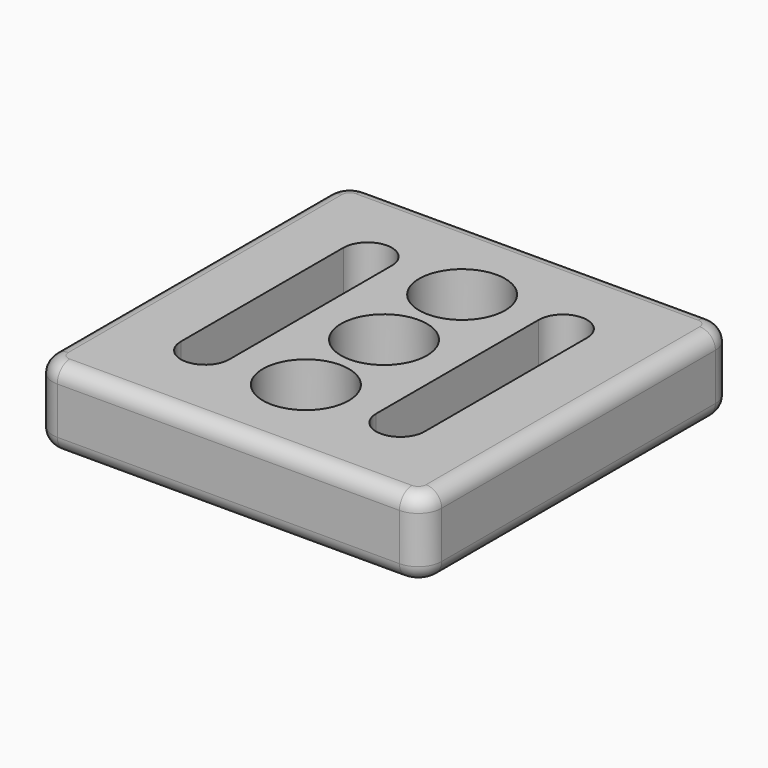
from build123d import *

# Parameters (mm, degrees)
PAD_DEPTH        = 10
FILLET_R         = 2
FILLET001_R      = 2
HOLE_D           = 6.6
HOLE_DEPTH       = 25
HOLE_CBORE_D     = 11
HOLE_CBORE_DEPTH = 6.4


with BuildPart() as part:
    # Sketch → Pad (new body)
    with BuildSketch(Plane.XY):
        with BuildLine():
            Line((-21.9, 24.9), (21.9, 24.9))
            ThreePointArc((24.9, 21.9), (24.02132, 24.02132), (21.9, 24.9))
            Line((24.9, 21.9), (24.9, -21.9))
            ThreePointArc((21.9, -24.9), (24.02132, -24.02132), (24.9, -21.9))
            Line((21.9, -24.9), (-21.9, -24.9))
            ThreePointArc((-24.9, -21.9), (-24.02132, -24.02132), (-21.9, -24.9))
            Line((-24.9, -21.9), (-24.9, 21.9))
            ThreePointArc((-21.9, 24.9), (-24.02132, 24.02132), (-24.9, 21.9))
        make_face()
        with BuildLine():
            ThreePointArc((-9.4, 13), (-12.5, 16.1), (-15.6, 13))
            Line((-15.6, 13), (-15.6, -13))
            ThreePointArc((-15.6, -13), (-12.5, -16.1), (-9.4, -13))
            Line((-9.4, -13), (-9.4, 13))
        make_face(mode=Mode.SUBTRACT)
        with BuildLine():
            ThreePointArc((15.6, 13), (12.5, 16.1), (9.4, 13))
            Line((9.4, 13), (9.4, -13))
            ThreePointArc((9.4, -13), (12.5, -16.1), (15.6, -13))
            Line((15.6, -13), (15.6, 13))
        make_face(mode=Mode.SUBTRACT)
    extrude(amount=PAD_DEPTH)

    # Fillet
    fillet_edges = [part.edges().sort_by_distance(p)[0] for p in [
        (0, -24.9, 10),
    ]]
    fillet(fillet_edges, radius=FILLET_R)

    # Fillet001
    fillet001_edges = [part.edges().sort_by_distance(p)[0] for p in [
        (0, -24.9, 0),
    ]]
    fillet(fillet001_edges, radius=FILLET001_R)

    # Hole
    with Locations(Plane.XY.offset(10)):
        with Locations((0, 0), (0, 12.5), (0, -12.5)):
            CounterBoreHole(HOLE_D / 2, HOLE_CBORE_D / 2, HOLE_CBORE_DEPTH, depth=HOLE_DEPTH)


solid = part.part
